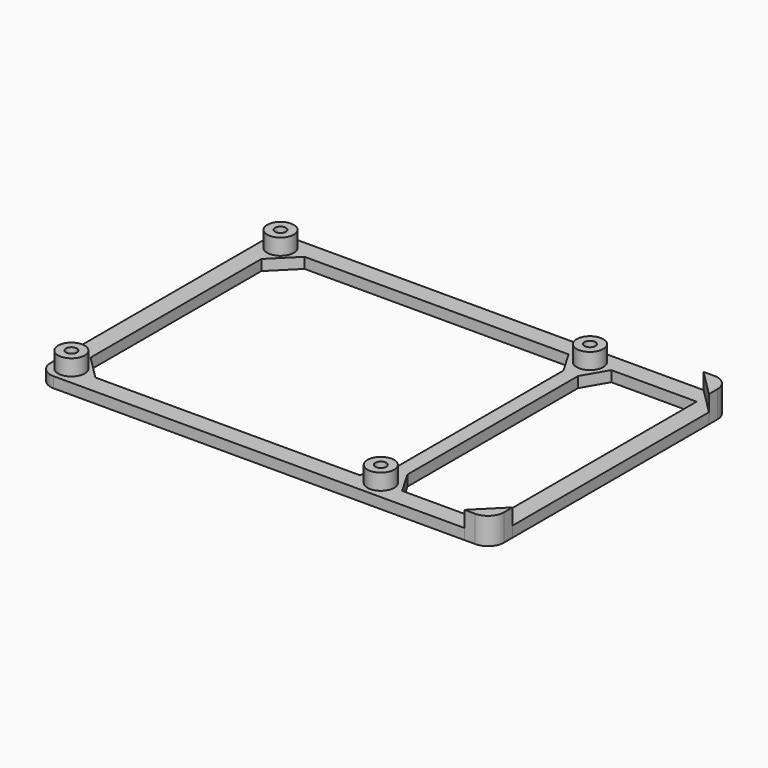
from build123d import *

# Parameters (mm, degrees)
F0_W       = 85
F0_H       = 56
F1_DEPTH   = 2
F2_R       = 3
F3_R       = 2.5
F4_DEPTH   = 5
F5_D       = 2.05
F5_DEPTH   = 10
F5_2_D     = 2.05
F5_2_DEPTH = 10
F7_DEPTH   = 3
F8_R       = 3


with BuildPart() as f1:
    # F0 (on Top) → F1 (new body)
    with BuildSketch(Plane.XY):
        Rectangle(F0_W, F0_H)
    extrude(amount=F1_DEPTH)

    # F2
    f2_edges = [f1.edges().sort_by_distance(p)[0] for p in [
        (-42.5, -28, 1),
        (-42.5, 28, 1),
        (42.5, -28, 1),
        (42.5, 28, 1),
    ]]
    fillet(f2_edges, radius=F2_R)

    # F5
    with Locations(Plane(origin=(0, 0, 0), x_dir=(1, 0, 0), z_dir=(0, 0, -1))):
        with Locations((-39, 24.5), (19, 24.5), (19, -24.5), (-39, -24.5)):
            Hole(F5_D / 2, depth=F5_DEPTH)

    # F6 (on face) → F7 (cut)
    with BuildSketch(Plane.XY):
        Polygon((-34.5, 24.5), (-39, 20), (-39, -20), (-34.5, -24.5), (15, -24.5), (17.625, -20), (17.625, 20), (15, 24.5), align=None)
        Polygon((23, 24.5), (20.375, 20), (20.375, -20), (23, -24.5), (39, -24.5), (39, 24.5), align=None)
    extrude(amount=F7_DEPTH, mode=Mode.SUBTRACT)


with BuildPart() as f4:
    # F3 (on Top) → F4 (new body)
    with BuildSketch(Plane.XY):
        with Locations((-39, -24.5)):
            Circle(F3_R)
        with Locations((-39, 24.5)):
            Circle(F3_R)
        with Locations((19, -24.5)):
            Circle(F3_R)
        with Locations((19, 24.5)):
            Circle(F3_R)
        Polygon((37.5, -28), (42.5, -28), (42.5, -23), align=None)
        Polygon((42.5, 23), (42.5, 28), (37.5, 28), align=None)
    extrude(amount=F4_DEPTH)

    # F5#2
    with Locations(Plane(origin=(0, 0, 0), x_dir=(1, 0, 0), z_dir=(0, 0, -1))):
        with Locations((-39, 24.5), (19, 24.5), (19, -24.5), (-39, -24.5)):
            Hole(F5_2_D / 2, depth=F5_2_DEPTH)

    # F8
    f8_edges = [f4.edges().sort_by_distance(p)[0] for p in [
        (42.5, 28, 2.5),
        (42.5, -28, 2.5),
    ]]
    fillet(f8_edges, radius=F8_R)


solid = Compound([f1.part, f4.part])
